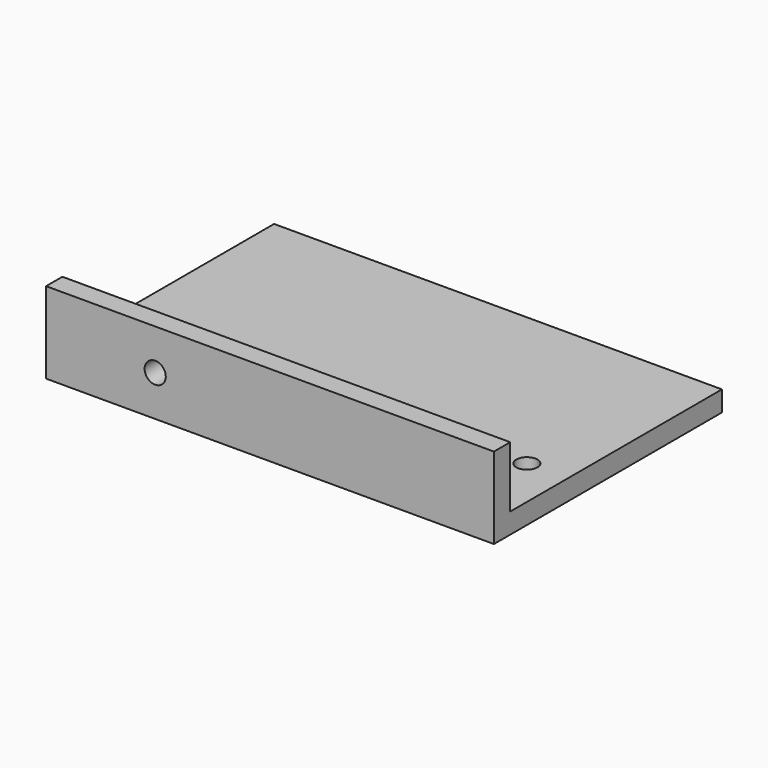
from build123d import *

# Parameters (mm, degrees)
F1_DEPTH = 69.85
F3_D     = 3.302
F5_D     = 3.302


with BuildPart() as f1:
    # F0 (on Right) → F1 (new body)
    with BuildSketch(Plane.YZ):
        Polygon((0, 12.7), (0, 0), (44.45, 0), (44.45, 3.175), (3.175, 3.175), (3.175, 12.7), align=None)
    extrude(amount=F1_DEPTH)

    # F3 (through all)
    with Locations(Plane(origin=(0, 0, 0), x_dir=(1, 0, 0), z_dir=(0, 0, -1))):
        with Locations((6.35, -14.351), (63.5, -14.351)):
            Hole(F3_D / 2)

    # F5 (through all)
    with Locations(Plane.XZ):
        with Locations((17.018, 6.35)):
            Hole(F5_D / 2)


solid = f1.part
